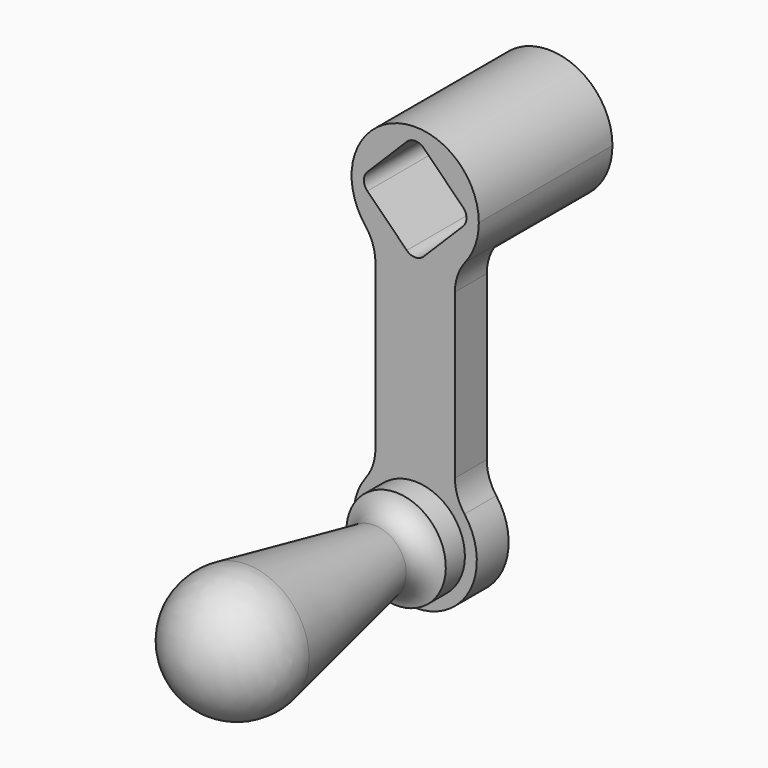
from build123d import *

# Parameters (mm, degrees)
F1_DEPTH = 10
F2_DEPTH = 32


with BuildPart() as f1:
    # F0 (on Front) → F1 (new body)
    with BuildSketch(Plane.XZ):
        with BuildLine():
            ThreePointArc((16, 75), (-5.237229, 90.118579), (-12.571429, 65.102567))
            ThreePointArc((-12.571429, 65.102567), (0, 59), (12.571429, 65.102567))
            ThreePointArc((12.571429, 65.102567), (15.118579, 69.762771), (16, 75))
        make_face()
        with BuildLine():
            Line((2.12132, 87.020815), (12.020815, 77.12132))
            ThreePointArc((12.020815, 77.12132), (12.899495, 75), (12.020815, 72.87868))
            Line((12.020815, 72.87868), (2.12132, 62.979185))
            ThreePointArc((2.12132, 62.979185), (0, 62.100505), (-2.12132, 62.979185))
            Line((-2.12132, 62.979185), (-12.020815, 72.87868))
            ThreePointArc((-12.020815, 72.87868), (-12.899495, 75), (-12.020815, 77.12132))
            Line((-12.020815, 77.12132), (-2.12132, 87.020815))
            ThreePointArc((-2.12132, 87.020815), (0, 87.899495), (2.12132, 87.020815))
        make_face(mode=Mode.SUBTRACT)
        with BuildLine():
            ThreePointArc((-10, 16.5), (-10.6158, 12.705267), (-12.4, 9.3))
            ThreePointArc((-12.4, 9.3), (0, -15.5), (12.4, 9.3))
            ThreePointArc((12.4, 9.3), (10.6158, 12.705267), (10, 16.5))
            Line((10, 16.5), (10, 57.679492))
            ThreePointArc((10, 57.679492), (10.661066, 61.607414), (12.571429, 65.102567))
            ThreePointArc((12.571429, 65.102567), (0, 59), (-12.571429, 65.102567))
            ThreePointArc((-12.571429, 65.102567), (-10.661066, 61.607414), (-10, 57.679492))
            Line((-10, 57.679492), (-10, 16.5))
        make_face()
    extrude(amount=F1_DEPTH)

    # F0 (on Front) → F2 (join)
    with BuildSketch(Plane.XZ):
        with BuildLine():
            ThreePointArc((16, 75), (-5.237229, 90.118579), (-12.571429, 65.102567))
            ThreePointArc((-12.571429, 65.102567), (0, 59), (12.571429, 65.102567))
            ThreePointArc((12.571429, 65.102567), (15.118579, 69.762771), (16, 75))
        make_face()
        with BuildLine():
            Line((2.12132, 87.020815), (12.020815, 77.12132))
            ThreePointArc((12.020815, 77.12132), (12.899495, 75), (12.020815, 72.87868))
            Line((12.020815, 72.87868), (2.12132, 62.979185))
            ThreePointArc((2.12132, 62.979185), (0, 62.100505), (-2.12132, 62.979185))
            Line((-2.12132, 62.979185), (-12.020815, 72.87868))
            ThreePointArc((-12.020815, 72.87868), (-12.899495, 75), (-12.020815, 77.12132))
            Line((-12.020815, 77.12132), (-2.12132, 87.020815))
            ThreePointArc((-2.12132, 87.020815), (0, 87.899495), (2.12132, 87.020815))
        make_face(mode=Mode.SUBTRACT)
    extrude(amount=-F2_DEPTH)

    # F3 (on Right) → F4 (revolve)
    with BuildSketch(Plane.YZ):
        with BuildLine():
            Line((-66, 0), (-10, 0))
            Line((-10, 0), (-10, 12.5))
            Line((-10, 12.5), (-16, 12.5))
            ThreePointArc((-16, 12.5), (-18.595581, 8.930846), (-22.930288, 8.102466))
            Line((-22.930288, 8.102466), (-63.01323, 15.718753))
            ThreePointArc((-63.01323, 15.718753), (-76.203227, 12.324535), (-82, 0))
            Line((-82, 0), (-66, 0))
        make_face()
    revolve(axis=Axis((0, -33, 0), (0, -1, 0)))


solid = f1.part
